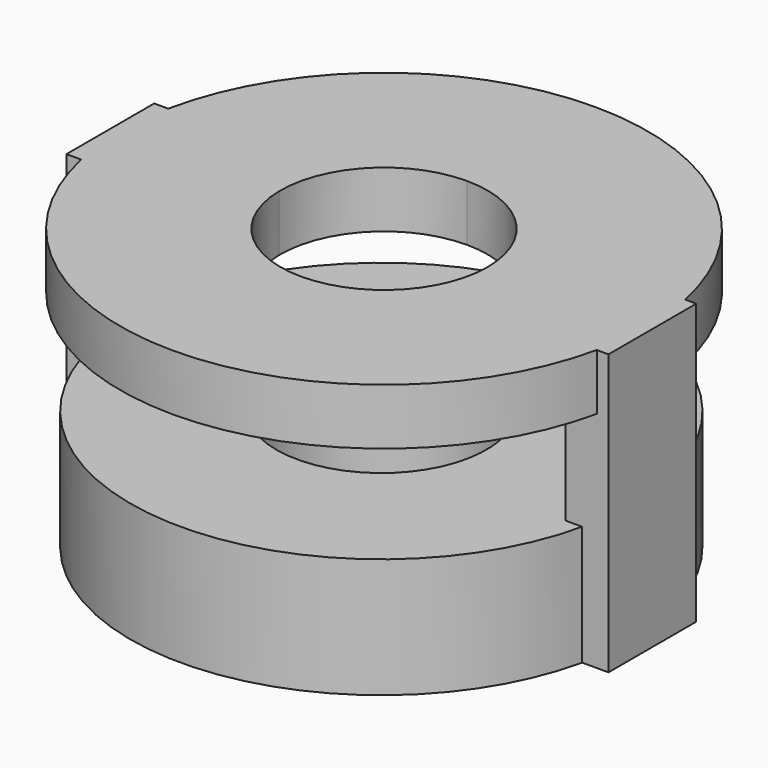
from build123d import *

# Parameters (mm, degrees)
F1_DEPTH = 25.4
F3_DEPTH = 34.036
F5_DEPTH = 11.938


with BuildPart() as f1:
    # F0 (on Top) → F1 (new body)
    with BuildSketch(Plane.XY):
        with BuildLine():
            Line((17.636783421, 0.8561543655), (-2.8872299848, 0.8561543655))
            ThreePointArc((-2.8872299848, 0.8561543655), (-25.1709409058, -21.4275565556), (-47.4546518269, 0.8561543655))
            Line((-47.4546518269, 0.8561543655), (-67.9786652327, 0.8561543655))
            Line((-67.9786652327, 0.8561543655), (-67.9786652327, -10.787546169))
            Line((-67.9786652327, -10.787546169), (-77.1236439758, -10.787546169))
            ThreePointArc((-77.1236439758, -10.787546169), (-25.1709409058, -52.3853625026), (26.7817621641, -10.787546169))
            Line((26.7817621641, -10.787546169), (17.636783421, -10.787546169))
            Line((17.636783421, -10.787546169), (17.636783421, 0.8561543655))
        make_face()
        with BuildLine():
            ThreePointArc((-47.4546518269, 0.8561543655), (-25.1709409058, 23.1398652865), (-2.8872299848, 0.8561543655))
            Line((-2.8872299848, 0.8561543655), (17.636783421, 0.8561543655))
            Line((17.636783421, 0.8561543655), (17.636783421, 12.4998548999))
            Line((17.636783421, 12.4998548999), (26.7817621641, 12.4998548999))
            ThreePointArc((26.7817621641, 12.4998548999), (-25.1709409058, 54.0976712335), (-77.1236439758, 12.4998548999))
            Line((-77.1236439758, 12.4998548999), (-67.9786652327, 12.4998548999))
            Line((-67.9786652327, 12.4998548999), (-67.9786652327, 0.8561543655))
            Line((-67.9786652327, 0.8561543655), (-47.4546518269, 0.8561543655))
        make_face()
        with BuildLine():
            Line((-67.9786652327, -10.787546169), (-67.9786652327, 0.8561543655))
            Line((-67.9786652327, 0.8561543655), (-78.4124577739, 0.8561543655))
            ThreePointArc((-78.4124577739, 0.8561543655), (-78.0892734346, -5.0012512706), (-77.1236439758, -10.787546169))
            Line((-77.1236439758, -10.787546169), (-67.9786652327, -10.787546169))
        make_face()
        with BuildLine():
            Line((-78.4124577739, 0.8561543655), (-67.9786652327, 0.8561543655))
            Line((-67.9786652327, 0.8561543655), (-67.9786652327, 12.4998548999))
            Line((-67.9786652327, 12.4998548999), (-77.1236439758, 12.4998548999))
            ThreePointArc((-77.1236439758, 12.4998548999), (-78.0892734346, 6.7135600016), (-78.4124577739, 0.8561543655))
        make_face()
        with BuildLine():
            Line((-82.7045142651, 0.8561543655), (-78.4124577739, 0.8561543655))
            ThreePointArc((-78.4124577739, 0.8561543655), (-78.0892734346, 6.7135600016), (-77.1236439758, 12.4998548999))
            Line((-77.1236439758, 12.4998548999), (-82.7045142651, 12.4998548999))
            Line((-82.7045142651, 12.4998548999), (-82.7045142651, 0.8561543655))
        make_face()
        with BuildLine():
            ThreePointArc((-77.1236439758, -10.787546169), (-78.0892734346, -5.0012512706), (-78.4124577739, 0.8561543655))
            Line((-78.4124577739, 0.8561543655), (-82.7045142651, 0.8561543655))
            Line((-82.7045142651, 0.8561543655), (-82.7045142651, -10.787546169))
            Line((-82.7045142651, -10.787546169), (-77.1236439758, -10.787546169))
        make_face()
        with BuildLine():
            ThreePointArc((26.7817621641, 12.4998548999), (27.747391623, 6.7135600016), (28.0705759622, 0.8561543655))
            Line((28.0705759622, 0.8561543655), (32.3626324534, 0.8561543655))
            Line((32.3626324534, 0.8561543655), (32.3626324534, 12.4998548999))
            Line((32.3626324534, 12.4998548999), (26.7817621641, 12.4998548999))
        make_face()
        with BuildLine():
            Line((32.3626324534, 0.8561543655), (28.0705759622, 0.8561543655))
            ThreePointArc((28.0705759622, 0.8561543655), (27.747391623, -5.0012512706), (26.7817621641, -10.787546169))
            Line((26.7817621641, -10.787546169), (32.3626324534, -10.787546169))
            Line((32.3626324534, -10.787546169), (32.3626324534, 0.8561543655))
        make_face()
        with BuildLine():
            Line((28.0705759622, 0.8561543655), (17.636783421, 0.8561543655))
            Line((17.636783421, 0.8561543655), (17.636783421, -10.787546169))
            Line((17.636783421, -10.787546169), (26.7817621641, -10.787546169))
            ThreePointArc((26.7817621641, -10.787546169), (27.747391623, -5.0012512706), (28.0705759622, 0.8561543655))
        make_face()
        with BuildLine():
            Line((17.636783421, 12.4998548999), (17.636783421, 0.8561543655))
            Line((17.636783421, 0.8561543655), (28.0705759622, 0.8561543655))
            ThreePointArc((28.0705759622, 0.8561543655), (27.747391623, 6.7135600016), (26.7817621641, 12.4998548999))
            Line((26.7817621641, 12.4998548999), (17.636783421, 12.4998548999))
        make_face()
    extrude(amount=F1_DEPTH)

    # F2 (on face) → F3 (join)
    with BuildSketch(Plane.XY.offset(25.4)):
        Polygon((-77.1236439758, 12.4998548999), (-82.7045142651, 12.4998548999), (-82.7045142651, -10.787546169), (-77.1236439758, -10.787546169), (-72.7896168828, -10.787546169), (-72.7896168828, 12.4998548999), align=None)
        Polygon((32.3626324534, 12.4998548999), (26.7817621641, 12.4998548999), (23.2018940151, 12.4998548999), (23.2018940151, -10.787546169), (26.7817621641, -10.787546169), (32.3626324534, -10.787546169), align=None)
    extrude(amount=F3_DEPTH)

    # F4 (on face) → F5 (join)
    with BuildSketch(Plane.XY.offset(59.436)):
        with BuildLine():
            Line((-46.8474674883, 0.8561543655), (-72.7896168828, 0.8561543655))
            Line((-72.7896168828, 0.8561543655), (-72.7896168828, -10.787546169))
            Line((-72.7896168828, -10.787546169), (-79.5839477761, -10.787546169))
            ThreePointArc((-79.5839477761, -10.787546169), (-18.9982000681, -54.5411442591), (31.1630347279, 0.8561543655))
            Line((31.1630347279, 0.8561543655), (-2.8639275667, 0.8561543655))
            ThreePointArc((-2.8639275667, 0.8561543655), (-9.4154283034, -14.4917875948), (-24.8556975275, -20.8226303985))
            ThreePointArc((-24.8556975275, -20.8226303985), (-40.2959667516, -14.4917875948), (-46.8474674883, 0.8561543655))
        make_face()
        with BuildLine():
            Line((-72.7896168828, 12.4998548999), (-72.7896168828, 0.8561543655))
            Line((-72.7896168828, 0.8561543655), (-46.8474674883, 0.8561543655))
            ThreePointArc((-46.8474674883, 0.8561543655), (-40.5188840302, 16.611668132), (-24.8556975275, 23.1654282143))
            ThreePointArc((-24.8556975275, 23.1654282143), (-9.3035702594, 16.7235261761), (-2.8616682211, 1.1713989079))
            ThreePointArc((-2.8616682211, 1.1713989079), (-2.8622330648, 1.0137725886), (-2.8639275667, 0.8561543655))
            Line((-2.8639275667, 0.8561543655), (31.1630347279, 0.8561543655))
            ThreePointArc((31.1630347279, 0.8561543655), (31.1636999848, 1.0137760127), (31.1639217377, 1.1713989079))
            ThreePointArc((31.1639217377, 1.1713989079), (-19.1619844457, 56.9009186794), (-79.717923398, 12.4998548999))
            Line((-79.717923398, 12.4998548999), (-72.7896168828, 12.4998548999))
        make_face()
    extrude(amount=-F5_DEPTH)


solid = f1.part
